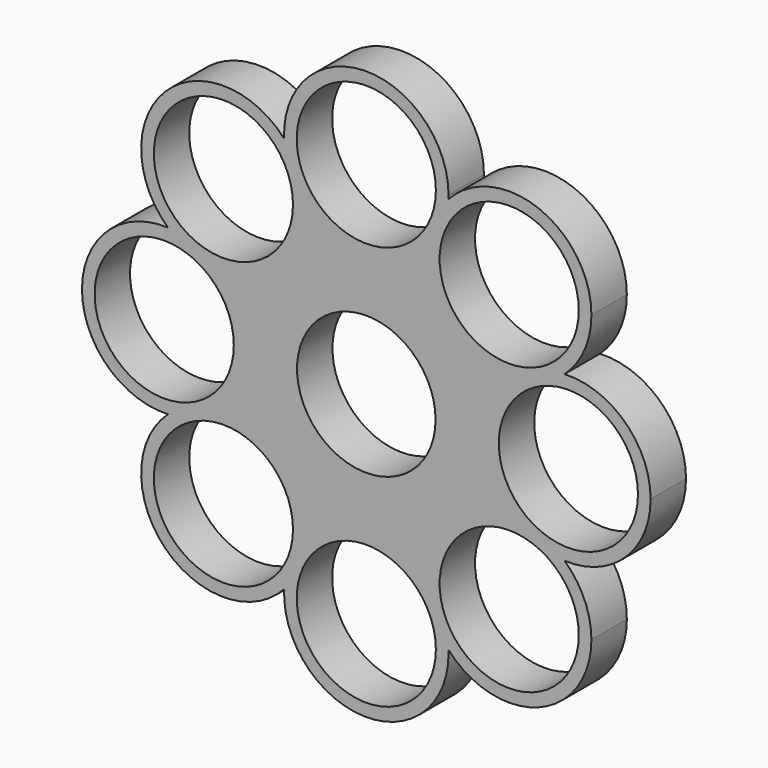
from build123d import *

# Parameters (mm, degrees)
F0_R     = 12.95
F0_R_2   = 10.95
F0_R_3   = 11
F1_DEPTH = 7


with BuildPart() as f1:
    # F0 (on Front) → F1 (new body)
    with BuildSketch(Plane.XZ):
        with BuildLine():
            ThreePointArc((9.605846079, 23.1905638819), (0, 18.95), (-9.605846079, 23.1905638819))
            ThreePointArc((-9.605846079, 23.1905638819), (-9.5955082208, 22.8913921289), (-9.5920616589, 22.5920616589))
            ThreePointArc((-9.5920616589, 22.5920616589), (-13.6137691959, 13.1904519856), (-23.1905638819, 9.605846079))
            ThreePointArc((-23.1905638819, 9.605846079), (-20.057299097, 5.2501109733), (-18.95, 0))
            ThreePointArc((-18.95, 0), (-20.057299097, -5.2501109733), (-23.1905638819, -9.605846079))
            ThreePointArc((-23.1905638819, -9.605846079), (-13.6137691959, -13.1904519856), (-9.5920616589, -22.5920616589))
            ThreePointArc((-9.5920616589, -22.5920616589), (-9.5955082208, -22.8913921289), (-9.605846079, -23.1905638819))
            ThreePointArc((-9.605846079, -23.1905638819), (0, -18.95), (9.605846079, -23.1905638819))
            ThreePointArc((9.605846079, -23.1905638819), (13.3996735035, -13.3996735035), (23.1905638819, -9.605846079))
            ThreePointArc((23.1905638819, -9.605846079), (18.95, 0), (23.1905638819, 9.605846079))
            ThreePointArc((23.1905638819, 9.605846079), (13.3996735035, 13.3996735035), (9.605846079, 23.1905638819))
        make_face()
        Circle(F0_R, mode=Mode.SUBTRACT)
        Circle(F0_R)
        Circle(F0_R_2, mode=Mode.SUBTRACT)
        with BuildLine():
            ThreePointArc((12.98621558, 31.351497777), (12.9965534381, 31.65066953), (13, 31.95))
            ThreePointArc((13, 31.95), (-0.29933047, 44.9465534381), (-12.98621558, 31.351497777))
            ThreePointArc((-12.98621558, 31.351497777), (-10.5816277363, 27.5669462797), (-9.605846079, 23.1905638819))
            ThreePointArc((-9.605846079, 23.1905638819), (0, 18.95), (9.605846079, 23.1905638819))
            ThreePointArc((9.605846079, 23.1905638819), (10.5816277363, 27.5669462797), (12.98621558, 31.351497777))
        make_face()
        with Locations((0, 31.95)):
            Circle(F0_R_3, mode=Mode.SUBTRACT)
        with BuildLine():
            ThreePointArc((-9.605846079, 23.1905638819), (-12.0104339226, 26.9751153793), (-12.98621558, 31.351497777))
            ThreePointArc((-12.98621558, 31.351497777), (-31.7844498143, 31.7844498143), (-31.351497777, 12.98621558))
            ThreePointArc((-31.351497777, 12.98621558), (-26.9751153793, 12.0104339226), (-23.1905638819, 9.605846079))
            ThreePointArc((-23.1905638819, 9.605846079), (-13.6137691959, 13.1904519856), (-9.5920616589, 22.5920616589))
            ThreePointArc((-9.5920616589, 22.5920616589), (-9.5955082208, 22.8913921289), (-9.605846079, 23.1905638819))
        make_face()
        with Locations((-22.5920616589, 22.5920616589)):
            Circle(F0_R_3, mode=Mode.SUBTRACT)
        with BuildLine():
            ThreePointArc((35.5920616589, 22.5920616589), (27.2890820428, 34.7138601853), (12.98621558, 31.351497777))
            ThreePointArc((12.98621558, 31.351497777), (12.0104339226, 26.9751153793), (9.605846079, 23.1905638819))
            ThreePointArc((9.605846079, 23.1905638819), (13.3996735035, 13.3996735035), (23.1905638819, 9.605846079))
            ThreePointArc((23.1905638819, 9.605846079), (26.9751153793, 12.0104339226), (31.351497777, 12.98621558))
            ThreePointArc((31.351497777, 12.98621558), (34.4847625619, 17.3419506856), (35.5920616589, 22.5920616589))
        make_face()
        with Locations((22.5920616589, 22.5920616589)):
            Circle(F0_R_3, mode=Mode.SUBTRACT)
        with BuildLine():
            ThreePointArc((-23.1905638819, 9.605846079), (-27.5669462797, 10.5816277363), (-31.351497777, 12.98621558))
            ThreePointArc((-31.351497777, 12.98621558), (-44.95, 0), (-31.351497777, -12.98621558))
            ThreePointArc((-31.351497777, -12.98621558), (-27.5669462797, -10.5816277363), (-23.1905638819, -9.605846079))
            ThreePointArc((-23.1905638819, -9.605846079), (-20.057299097, -5.2501109733), (-18.95, 0))
            ThreePointArc((-18.95, 0), (-20.057299097, 5.2501109733), (-23.1905638819, 9.605846079))
        make_face()
        with Locations((-31.95, 0)):
            Circle(F0_R_3, mode=Mode.SUBTRACT)
        with BuildLine():
            ThreePointArc((-23.1905638819, -9.605846079), (-26.9751153793, -12.0104339226), (-31.351497777, -12.98621558))
            ThreePointArc((-31.351497777, -12.98621558), (-31.7844498143, -31.7844498143), (-12.98621558, -31.351497777))
            ThreePointArc((-12.98621558, -31.351497777), (-12.0104339226, -26.9751153793), (-9.605846079, -23.1905638819))
            ThreePointArc((-9.605846079, -23.1905638819), (-9.5955082208, -22.8913921289), (-9.5920616589, -22.5920616589))
            ThreePointArc((-9.5920616589, -22.5920616589), (-13.6137691959, -13.1904519856), (-23.1905638819, -9.605846079))
        make_face()
        with Locations((-22.5920616589, -22.5920616589)):
            Circle(F0_R_3, mode=Mode.SUBTRACT)
        with BuildLine():
            ThreePointArc((31.351497777, 12.98621558), (27.5669462797, 10.5816277363), (23.1905638819, 9.605846079))
            ThreePointArc((23.1905638819, 9.605846079), (18.95, 0), (23.1905638819, -9.605846079))
            ThreePointArc((23.1905638819, -9.605846079), (27.5669462797, -10.5816277363), (31.351497777, -12.98621558))
            ThreePointArc((31.351497777, -12.98621558), (40.928292463, -9.4016096733), (44.95, 0))
            ThreePointArc((44.95, 0), (40.928292463, 9.4016096733), (31.351497777, 12.98621558))
        make_face()
        with Locations((31.95, 0)):
            Circle(F0_R_3, mode=Mode.SUBTRACT)
        with BuildLine():
            ThreePointArc((-9.605846079, -23.1905638819), (-10.5816277363, -27.5669462797), (-12.98621558, -31.351497777))
            ThreePointArc((-12.98621558, -31.351497777), (-0.29933047, -44.9465534381), (13, -31.95))
            ThreePointArc((13, -31.95), (12.9965534381, -31.65066953), (12.98621558, -31.351497777))
            ThreePointArc((12.98621558, -31.351497777), (10.5816277363, -27.5669462797), (9.605846079, -23.1905638819))
            ThreePointArc((9.605846079, -23.1905638819), (0, -18.95), (-9.605846079, -23.1905638819))
        make_face()
        with Locations((0, -31.95)):
            Circle(F0_R_3, mode=Mode.SUBTRACT)
        with BuildLine():
            ThreePointArc((31.351497777, -12.98621558), (26.9751153793, -12.0104339226), (23.1905638819, -9.605846079))
            ThreePointArc((23.1905638819, -9.605846079), (13.3996735035, -13.3996735035), (9.605846079, -23.1905638819))
            ThreePointArc((9.605846079, -23.1905638819), (12.0104339226, -26.9751153793), (12.98621558, -31.351497777))
            ThreePointArc((12.98621558, -31.351497777), (27.2890820428, -34.7138601853), (35.5920616589, -22.5920616589))
            ThreePointArc((35.5920616589, -22.5920616589), (34.4847625619, -17.3419506856), (31.351497777, -12.98621558))
        make_face()
        with Locations((22.5920616589, -22.5920616589)):
            Circle(F0_R_3, mode=Mode.SUBTRACT)
        with BuildLine():
            ThreePointArc((-9.605846079, 23.1905638819), (-10.5816277363, 27.5669462797), (-12.98621558, 31.351497777))
            ThreePointArc((-12.98621558, 31.351497777), (-12.0104339226, 26.9751153793), (-9.605846079, 23.1905638819))
        make_face()
        with BuildLine():
            ThreePointArc((9.605846079, 23.1905638819), (12.0104339226, 26.9751153793), (12.98621558, 31.351497777))
            ThreePointArc((12.98621558, 31.351497777), (10.5816277363, 27.5669462797), (9.605846079, 23.1905638819))
        make_face()
        with BuildLine():
            ThreePointArc((-23.1905638819, 9.605846079), (-26.9751153793, 12.0104339226), (-31.351497777, 12.98621558))
            ThreePointArc((-31.351497777, 12.98621558), (-27.5669462797, 10.5816277363), (-23.1905638819, 9.605846079))
        make_face()
        with BuildLine():
            ThreePointArc((-23.1905638819, -9.605846079), (-27.5669462797, -10.5816277363), (-31.351497777, -12.98621558))
            ThreePointArc((-31.351497777, -12.98621558), (-26.9751153793, -12.0104339226), (-23.1905638819, -9.605846079))
        make_face()
        with BuildLine():
            ThreePointArc((31.351497777, 12.98621558), (26.9751153793, 12.0104339226), (23.1905638819, 9.605846079))
            ThreePointArc((23.1905638819, 9.605846079), (27.5669462797, 10.5816277363), (31.351497777, 12.98621558))
        make_face()
        with BuildLine():
            ThreePointArc((-9.605846079, -23.1905638819), (-12.0104339226, -26.9751153793), (-12.98621558, -31.351497777))
            ThreePointArc((-12.98621558, -31.351497777), (-10.5816277363, -27.5669462797), (-9.605846079, -23.1905638819))
        make_face()
        with BuildLine():
            ThreePointArc((31.351497777, -12.98621558), (27.5669462797, -10.5816277363), (23.1905638819, -9.605846079))
            ThreePointArc((23.1905638819, -9.605846079), (26.9751153793, -12.0104339226), (31.351497777, -12.98621558))
        make_face()
        with BuildLine():
            ThreePointArc((12.98621558, -31.351497777), (12.0104339226, -26.9751153793), (9.605846079, -23.1905638819))
            ThreePointArc((9.605846079, -23.1905638819), (10.5816277363, -27.5669462797), (12.98621558, -31.351497777))
        make_face()
    extrude(amount=F1_DEPTH)


solid = f1.part
